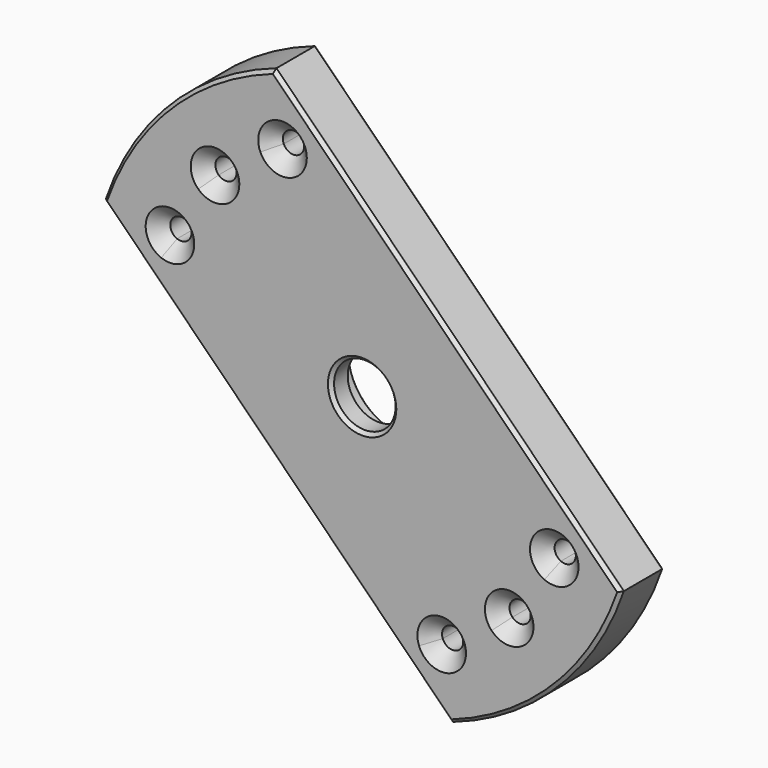
from build123d import *

# Parameters (mm, degrees)
F0_R     = 8
F1_DEPTH = 8
F0_R_2   = 4.5
F2_DEPTH = 3
F3_SIZE  = 0.5
F4_SIZE  = 2


with BuildPart() as f1:
    # F0 (on Front) → F1 (new body)
    with BuildSketch(Plane.XZ):
        with BuildLine():
            Line((-7.7551369733, 32.692779792), (-12.9187443003, 37.856387119))
            ThreePointArc((-12.9187443003, 37.856387119), (-28.2842712475, 28.2842712475), (-37.856387119, 12.9187443003))
            Line((-37.856387119, 12.9187443003), (-32.692779792, 7.7551369733))
            ThreePointArc((-32.692779792, 7.7551369733), (-23.7587878479, 23.7587878479), (-7.7551369733, 32.692779792))
        make_face()
        with BuildLine():
            Line((-5.0414182424, 29.9790610611), (-7.7551369733, 32.692779792))
            ThreePointArc((-7.7551369733, 32.692779792), (-23.7587878479, 23.7587878479), (-32.692779792, 7.7551369733))
            Line((-32.692779792, 7.7551369733), (-29.9790610611, 5.0414182424))
            ThreePointArc((-29.9790610611, 5.0414182424), (-29.423423687, 7.6434376124), (-28.6423974084, 10.1869068269))
            ThreePointArc((-28.6423974084, 10.1869068269), (-29.5179510637, 12.2267356641), (-27.4564643335, 13.0500025402))
            ThreePointArc((-27.4564643335, 13.0500025402), (-25.276676214, 16.8893350838), (-22.5637642579, 20.3724456684))
            ThreePointArc((-22.5637642579, 20.3724456684), (-22.5920616589, 22.5920616589), (-20.3724456684, 22.5637642579))
            ThreePointArc((-20.3724456684, 22.5637642579), (-16.8893350838, 25.276676214), (-13.0500025402, 27.4564643335))
            ThreePointArc((-13.0500025402, 27.4564643335), (-12.2267356641, 29.5179510637), (-10.1869068269, 28.6423974084))
            ThreePointArc((-10.1869068269, 28.6423974084), (-7.6434376124, 29.423423687), (-5.0414182424, 29.9790610611))
        make_face()
        with BuildLine():
            Line((-0.0622796062, 24.9999224249), (-5.0414182424, 29.9790610611))
            ThreePointArc((-5.0414182424, 29.9790610611), (-7.6434376124, 29.423423687), (-10.1869068269, 28.6423974084))
            ThreePointArc((-10.1869068269, 28.6423974084), (-10.1096278948, 28.3689238734), (-10.0835763439, 28.0859377883))
            ThreePointArc((-10.0835763439, 28.0859377883), (-11.3118315726, 26.5696989212), (-13.0500025402, 27.4564643335))
            ThreePointArc((-13.0500025402, 27.4564643335), (-16.8893350838, 25.276676214), (-20.3724456684, 22.5637642579))
            ThreePointArc((-20.3724456684, 22.5637642579), (-20.0565877875, 22.0709023286), (-19.9460461481, 21.4960461481))
            ThreePointArc((-19.9460461481, 21.4960461481), (-20.8846800835, 20.0717106767), (-22.5637642579, 20.3724456684))
            ThreePointArc((-22.5637642579, 20.3724456684), (-25.276676214, 16.8893350838), (-27.4564643335, 13.0500025402))
            ThreePointArc((-27.4564643335, 13.0500025402), (-26.7862870939, 12.4782112192), (-26.5359377883, 11.6335763439))
            ThreePointArc((-26.5359377883, 11.6335763439), (-27.2084448855, 10.3558806816), (-28.6423974084, 10.1869068269))
            ThreePointArc((-28.6423974084, 10.1869068269), (-29.423423687, 7.6434376124), (-29.9790610611, 5.0414182424))
            Line((-29.9790610611, 5.0414182424), (-24.9999224249, 0.0622796062))
            ThreePointArc((-24.9999224249, 0.0622796062), (-17.6776695297, 17.6776695297), (-0.0622796062, 24.9999224249))
        make_face()
        with BuildLine():
            Line((24.9999224249, -0.0622796062), (-0.0622796062, 24.9999224249))
            ThreePointArc((-0.0622796062, 24.9999224249), (-17.6776695297, 17.6776695297), (-24.9999224249, 0.0622796062))
            Line((-24.9999224249, 0.0622796062), (0.0622796062, -24.9999224249))
            ThreePointArc((0.0622796062, -24.9999224249), (17.6776695297, -17.6776695297), (24.9999224249, -0.0622796062))
        make_face()
        Circle(F0_R, mode=Mode.SUBTRACT)
        with BuildLine():
            ThreePointArc((28.6423974084, -10.1869068269), (29.423423687, -7.6434376124), (29.9790610611, -5.0414182424))
            Line((29.9790610611, -5.0414182424), (24.9999224249, -0.0622796062))
            ThreePointArc((24.9999224249, -0.0622796062), (17.6776695297, -17.6776695297), (0.0622796062, -24.9999224249))
            Line((0.0622796062, -24.9999224249), (5.0414182424, -29.9790610611))
            ThreePointArc((5.0414182424, -29.9790610611), (7.6434376124, -29.423423687), (10.1869068269, -28.6423974084))
            ThreePointArc((10.1869068269, -28.6423974084), (11.0404170237, -26.653924513), (13.0500025402, -27.4564643335))
            ThreePointArc((13.0500025402, -27.4564643335), (16.8893350838, -25.276676214), (20.3724456684, -22.5637642579))
            ThreePointArc((20.3724456684, -22.5637642579), (20.4000306372, -20.4000306372), (22.5637642579, -20.3724456684))
            ThreePointArc((22.5637642579, -20.3724456684), (25.276676214, -16.8893350838), (27.4564643335, -13.0500025402))
            ThreePointArc((27.4564643335, -13.0500025402), (26.653924513, -11.0404170237), (28.6423974084, -10.1869068269))
        make_face()
        with BuildLine():
            ThreePointArc((7.7551369733, -32.692779792), (23.7587878479, -23.7587878479), (32.692779792, -7.7551369733))
            Line((32.692779792, -7.7551369733), (29.9790610611, -5.0414182424))
            ThreePointArc((29.9790610611, -5.0414182424), (29.423423687, -7.6434376124), (28.6423974084, -10.1869068269))
            ThreePointArc((28.6423974084, -10.1869068269), (29.3636334507, -10.7560834411), (29.6359377883, -11.6335763439))
            ThreePointArc((29.6359377883, -11.6335763439), (28.9305726636, -12.9332270383), (27.4564643335, -13.0500025402))
            ThreePointArc((27.4564643335, -13.0500025402), (25.276676214, -16.8893350838), (22.5637642579, -20.3724456684))
            ThreePointArc((22.5637642579, -20.3724456684), (22.9203816195, -20.8846800835), (23.0460461481, -21.4960461481))
            ThreePointArc((23.0460461481, -21.4960461481), (22.0709023286, -22.9355045086), (20.3724456684, -22.5637642579))
            ThreePointArc((20.3724456684, -22.5637642579), (16.8893350838, -25.276676214), (13.0500025402, -27.4564643335))
            ThreePointArc((13.0500025402, -27.4564643335), (13.149815211, -27.7641930171), (13.1835763439, -28.0859377883))
            ThreePointArc((13.1835763439, -28.0859377883), (11.916562429, -29.6098862375), (10.1869068269, -28.6423974084))
            ThreePointArc((10.1869068269, -28.6423974084), (7.6434376124, -29.423423687), (5.0414182424, -29.9790610611))
            Line((5.0414182424, -29.9790610611), (7.7551369733, -32.692779792))
        make_face()
        with BuildLine():
            ThreePointArc((12.9187443003, -37.856387119), (28.2842712475, -28.2842712475), (37.856387119, -12.9187443003))
            Line((37.856387119, -12.9187443003), (32.692779792, -7.7551369733))
            ThreePointArc((32.692779792, -7.7551369733), (23.7587878479, -23.7587878479), (7.7551369733, -32.692779792))
            Line((7.7551369733, -32.692779792), (12.9187443003, -37.856387119))
        make_face()
    extrude(amount=-F1_DEPTH)

    # F0 (on Front) → F2 (join)
    with BuildSketch(Plane.XZ):
        Circle(F0_R)
        Circle(F0_R_2, mode=Mode.SUBTRACT)
    extrude(amount=-F2_DEPTH)

    # F3
    f3_edges = [f1.edges().sort_by_distance(p)[0] for p in [
        (-28.284271, 8, 28.284271),
        (-12.468821, 8, -12.468821),
        (28.284271, 8, -28.284271),
        (12.468821, 8, 12.468821),
        (10.21715, 8, -28.715411),
        (20.428328, 8, -22.619647),
        (27.529478, 8, -13.080246),
        (-28.715411, 8, 10.21715),
        (-22.619647, 8, 20.428328),
        (-13.080246, 8, 27.529478),
        (-8, 8, 0),
        (-4.5, 0, 0),
        (12.468821, 0, 12.468821),
        (-28.284271, 0, 28.284271),
        (-12.468821, 0, -12.468821),
        (28.284271, 0, -28.284271),
    ]]
    chamfer(f3_edges, length=F3_SIZE)

    # F4
    f4_edges = [f1.edges().sort_by_distance(p)[0] for p in [
        (-28.715411, 0, 10.21715),
        (-22.619647, 0, 20.428328),
        (-13.080246, 0, 27.529478),
        (27.529478, 0, -13.080246),
        (20.428328, 0, -22.619647),
        (10.21715, 0, -28.715411),
    ]]
    chamfer(f4_edges, length=F4_SIZE)


solid = f1.part
